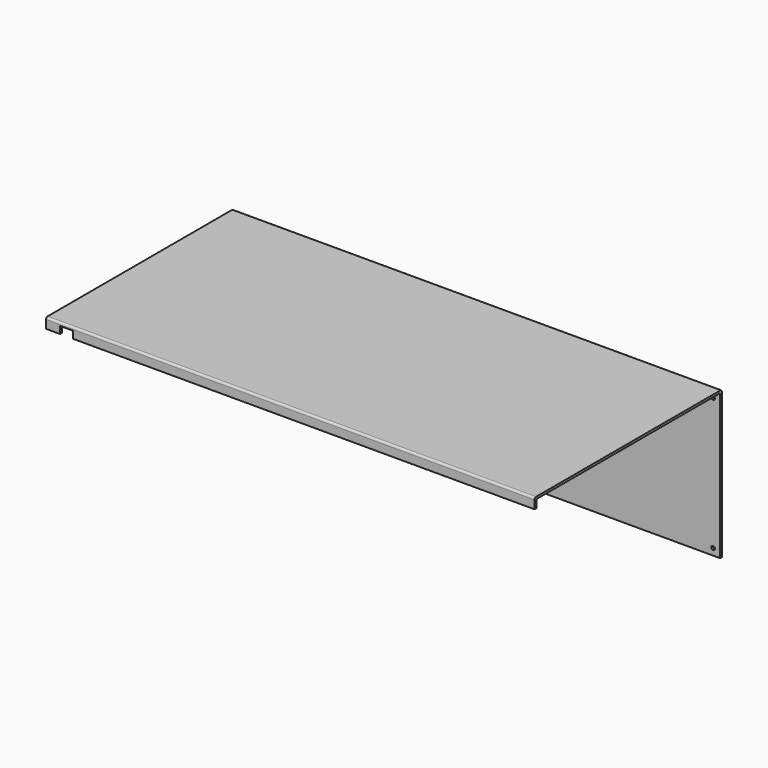
from build123d import *

# Parameters (mm, degrees)
F1_DEPTH = 434.848
F2_W     = 11.3987904478
F2_H     = 6.35
F3_DEPTH = 25.4
F4_R     = 1.6383
F5_DEPTH = 25.4
F6_R     = 1.6383
F7_DEPTH = 25.4


with BuildPart() as f1:
    # F0 (on Right) → F1 (new body)
    with BuildSketch(Plane.YZ):
        with BuildLine():
            ThreePointArc((0, -1.778), (-0.5207641431, -0.5207641431), (-1.778, 0))
            Line((-1.778, 0), (-206.756, 0))
            ThreePointArc((-206.756, 0), (-208.0132358569, -0.5207641431), (-208.534, -1.778))
            Line((-208.534, -1.778), (-208.534, -9.144))
            Line((-208.534, -9.144), (-206.502, -9.144))
            Line((-206.502, -9.144), (-206.502, -2.032))
            Line((-206.502, -2.032), (-1.9587501884, -2.032))
            Line((-1.9587501884, -2.032), (-2.032, -131.4196))
            Line((-2.032, -131.4196), (0, -131.4196))
            Line((0, -131.4196), (0, -1.778))
        make_face()
    extrude(amount=F1_DEPTH)

    # F2 (on face) → F3 (cut)
    with BuildSketch(Plane.XZ.offset(208.534)):
        with Locations((18.2723952239, -5.969)):
            Rectangle(F2_W, F2_H)
    extrude(amount=-F3_DEPTH, mode=Mode.SUBTRACT)

    # F4 (on face) → F5 (cut)
    with BuildSketch(Plane(origin=(0, -1.9575991909, 0.0011082497), x_dir=(1, 0, 0), z_dir=(0, -0.9999998398, 0.0005661269))):
        with Locations((5.969, -125.4517293099)):
            Circle(F4_R)
        with Locations((428.625, -125.4517293099)):
            Circle(F4_R)
    extrude(amount=-F5_DEPTH, mode=Mode.SUBTRACT)

    # F6 (on face) → F7 (cut)
    with BuildSketch(Plane(origin=(0, 0, 0), x_dir=(-1, 0, 0), z_dir=(0, 1, 0))):
        with Locations((-428.625, -7.747)):
            Circle(F6_R)
        with Locations((-5.969, -7.747)):
            Circle(F6_R)
    extrude(amount=-F7_DEPTH, mode=Mode.SUBTRACT)


solid = f1.part
